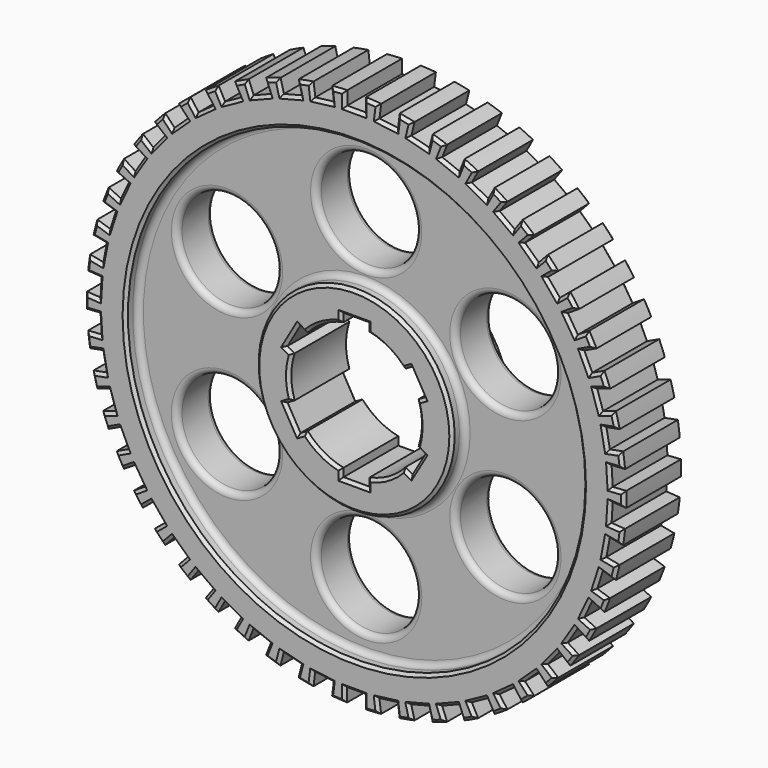
from build123d import *

# Parameters (mm, degrees)
SKETCH_R              = 90.79012
PAD_DEPTH             = 25
SKETCH001_W           = 6.31633
SKETCH001_H           = 4.810761
POCKET_DEPTH          = 541.015601
POLARPATTERN_COUNT    = 50
SKETCH002_R           = 77
SKETCH002_R_2         = 33
POCKET001_DEPTH       = 5
SKETCH003_R           = 77
SKETCH003_R_2         = 33
POCKET002_DEPTH       = 5
SKETCH004_R           = 22
POCKET003_DEPTH       = 25.001
SKETCH005_W           = 8.794952
SKETCH005_H           = 3.541931
POCKET004_DEPTH       = 540.862567
POLARPATTERN001_COUNT = 6
SKETCH006_R           = 16.733821
POCKET005_DEPTH       = 535.862567
POLARPATTERN002_COUNT = 6
FILLET_R              = 2
CHAMFER_SIZE          = 1
CHAMFER001_SIZE       = 1
CHAMFER002_SIZE       = 1
FILLET001_R           = 2
CHAMFER003_SIZE       = 1


with BuildPart() as part:
    # Sketch → Pad (new body)
    with BuildSketch(Plane.XZ):
        Circle(SKETCH_R)
    extrude(amount=PAD_DEPTH)

    # Sketch001 (on Face3 of Pad) → Pocket (cut, through all)
    with BuildSketch(Plane.XZ.offset(25)):
        with Locations((0.016587, 88.583343)):
            Rectangle(SKETCH001_W, SKETCH001_H)
    pocket = extrude(amount=-POCKET_DEPTH, mode=Mode.SUBTRACT)

    # PolarPattern: Pocket ×50 about axis
    polarpattern_axis = Axis((0, -25, 0), (0, -1, 0))
    for i in range(1, POLARPATTERN_COUNT):
        add(pocket.rotate(polarpattern_axis, i * 360 / POLARPATTERN_COUNT), mode=Mode.SUBTRACT)

    # Sketch002 (on Face202 of PolarPattern) → Pocket001 (cut)
    with BuildSketch(Plane.XZ.offset(25)):
        Circle(SKETCH002_R)
        Circle(SKETCH002_R_2, mode=Mode.SUBTRACT)
    extrude(amount=-POCKET001_DEPTH, mode=Mode.SUBTRACT)

    # Sketch003 (on Face1 of Pocket001) → Pocket002 (cut)
    with BuildSketch(Plane(origin=(0, 0, 0), x_dir=(1, 0, 0), z_dir=(0, 1, 0))):
        Circle(SKETCH003_R)
        Circle(SKETCH003_R_2, mode=Mode.SUBTRACT)
    extrude(amount=-POCKET002_DEPTH, mode=Mode.SUBTRACT)

    # Sketch004 (on Face208 of Pocket002) → Pocket003 (cut, through all)
    with BuildSketch(Plane(origin=(0, 0, 0), x_dir=(1, 0, 0), z_dir=(0, 1, 0))):
        Circle(SKETCH004_R)
    extrude(amount=-POCKET003_DEPTH, mode=Mode.SUBTRACT)

    # Sketch005 (on Face208 of Pocket003) → Pocket004 (cut, through all)
    with BuildSketch(Plane(origin=(0, 0, 0), x_dir=(1, 0, 0), z_dir=(0, 1, 0))):
        with Locations((0, 22.566982)):
            Rectangle(SKETCH005_W, SKETCH005_H)
    pocket004 = extrude(amount=-POCKET004_DEPTH, mode=Mode.SUBTRACT)

    # PolarPattern001: Pocket004 ×6 about axis
    polarpattern001_axis = Axis((0, 0, 0), (0, 1, 0))
    for i in range(1, POLARPATTERN001_COUNT):
        add(pocket004.rotate(polarpattern001_axis, i * 360 / POLARPATTERN001_COUNT), mode=Mode.SUBTRACT)

    # Sketch006 (on Face204 of PolarPattern001) → Pocket005 (cut, through all)
    with BuildSketch(Plane(origin=(0, -5, 0), x_dir=(1, 0, 0), z_dir=(0, 1, 0))):
        with Locations((0, 54.106655)):
            Circle(SKETCH006_R)
    pocket005 = extrude(amount=-POCKET005_DEPTH, mode=Mode.SUBTRACT)

    # PolarPattern002: Pocket005 ×6 about axis
    polarpattern002_axis = Axis((0, -5, 0), (0, 1, 0))
    for i in range(1, POLARPATTERN002_COUNT):
        add(pocket005.rotate(polarpattern002_axis, i * 360 / POLARPATTERN002_COUNT), mode=Mode.SUBTRACT)

    # Fillet
    fillet_edges = [part.edges().sort_by_distance(p)[0] for p in [
        (-77, -5, 0),
        (-55.224648, -5, -12.561413),
        (-16.733821, -5, -54.106655),
        (-38.490827, -5, 41.545242),
        (-33, -5, 0),
        (16.733821, -5, 54.106655),
        (38.490827, -5, -41.545242),
        (55.224648, -5, 12.561413),
    ]]
    fillet(fillet_edges, radius=FILLET_R)

    # Chamfer
    chamfer_edges = [part.edges().sort_by_distance(p)[0] for p in [
        (90.781314, 0, 1.264515),
        (90.781081, 0, -1.281111),
        (88.481075, 0, 2.385729),
        (88.479569, 0, -2.418873),
        (86.008952, 0, 5.394605),
        (86.006869, 0, -5.427713),
        (88.085046, 0, 8.689631),
        (88.082387, 0, -8.722703),
        (90.076291, 0, 11.362553),
        (90.072131, 0, -11.395485),
        (87.484365, 0, 13.456536),
        (87.478716, 0, -13.48923),
        (84.654622, 0, 16.131847),
        (84.648406, 0, -16.164433),
        (86.301369, 0, 19.661094),
        (86.294586, 0, -19.693572),
        (87.941907, 0, 22.562509),
        (87.933652, 0, -22.59466),
        (85.107973, 0, 24.315125),
        (85.098271, 0, -24.346854),
        (81.965239, 0, 26.61468),
        (81.954988, 0, -26.64623),
        (83.156669, 0, 30.32249),
        (83.145869, 0, -30.353862),
        (84.420627, 0, 33.40664),
        (84.408408, 0, -33.437503),
        (81.389378, 0, 34.790251),
        (81.375776, 0, -34.820513),
        (77.983215, 0, 36.677784),
        (77.96909, 0, -36.7078),
        (78.700538, 0, 40.505683),
        (78.685891, 0, -40.535453),
        (79.567983, 0, 43.723929),
        (79.551992, 0, -43.753017),
        (76.387224, 0, 44.716713),
        (76.369936, 0, -44.745032),
        (72.771348, 0, 46.162457),
        (72.753573, 0, -46.190466),
        (73.003253, 0, 50.050076),
        (72.98499, 0, -50.077776),
        (73.460504, 0, 53.351666),
        (73.440993, 0, -53.37852),
        (70.180397, 0, 53.937966),
        (70.159697, 0, -53.963895),
        (66.411835, 0, 54.919121),
        (66.390689, 0, -54.944681),
        (66.154662, 0, 58.80515),
        (66.133072, 0, -58.830343),
        (66.194509, 0, 62.138014),
        (66.171787, 0, -62.162211),
        (62.866784, 0, 62.308586),
        (62.842997, 0, -62.331715),
        (59.004966, 0, 62.809677),
        (58.980784, 0, -62.832386),
        (58.262773, 0, 66.632831),
        (58.238196, 0, -66.65512),
        (57.884588, 0, 69.944409),
        (57.859011, 0, -69.965568),
        (54.561724, 0, 69.696561),
        (54.535226, 0, -69.716527),
        (50.667555, 0, 69.709687),
        (50.640717, 0, -69.729186),
        (49.452046, 0, 73.409674),
        (49.424868, 0, -73.428705),
        (48.661791, 0, 76.647739),
        (48.633765, 0, -76.665525),
        (45.396194, 0, 75.98538),
        (45.367401, 0, -76.001868),
        (41.531085, 0, 75.510334),
        (41.502015, 0, -75.526315),
        (39.86143, 0, 79.028801),
        (39.832082, 0, -79.044277),
        (38.67157, 0, 82.142289),
        (38.641535, 0, -82.156422),
        (35.514738, 0, 81.075865),
        (35.484106, 0, -81.088613),
        (31.739646, 0, 80.120138),
        (31.708802, 0, -80.13235),
        (29.642175, 0, 83.401597),
        (29.611119, 0, -83.413273),
        (28.071474, 0, 86.341405),
        (28.039905, 0, -86.351663),
        (25.073193, 0, 84.887734),
        (25.041205, 0, -84.896543),
        (21.447654, 0, 83.466399),
        (21.415522, 0, -83.474649),
        (18.955446, 0, 86.459101),
        (18.923171, 0, -86.466791),
        (17.028675, 0, 89.178866),
        (16.996069, 0, -89.185086),
        (14.236229, 0, 87.360873),
        (14.20339, 0, -87.365604),
        (10.817419, 0, 85.496345),
        (10.784507, 0, -85.500503),
        (7.969778, 0, 88.153092),
        (7.936794, 0, -88.156677),
        (5.717323, 0, 90.609923),
        (5.684195, 0, -90.612007),
        (3.174752, 0, 88.456279),
        (3.141578, 0, -88.456857),
        (0.016587, 0, 86.177963),
        (-0.016587, 0, -86.177963),
        (-3.141578, 0, 88.456857),
        (-3.174752, 0, -88.456279),
        (-5.684195, 0, 90.612007),
        (-5.717323, 0, -90.609923),
        (-7.936794, 0, 88.156677),
        (-7.969778, 0, -88.153092),
        (-10.784507, 0, 85.500503),
        (-10.817419, 0, -85.496345),
        (-14.20339, 0, 87.365604),
        (-14.236229, 0, -87.360873),
        (-16.996069, 0, 89.185086),
        (-17.028675, 0, -89.178866),
        (-18.923171, 0, 86.466791),
        (-18.955446, 0, -86.459101),
        (-21.415522, 0, 83.474649),
        (-21.447654, 0, -83.466399),
        (-25.041205, 0, 84.896543),
        (-25.073193, 0, -84.887734),
        (-28.039905, 0, 86.351663),
        (-28.071474, 0, -86.341405),
        (-29.611119, 0, 83.413273),
        (-29.642175, 0, -83.401597),
        (-31.708802, 0, 80.13235),
        (-31.739646, 0, -80.120138),
        (-35.484106, 0, 81.088613),
        (-35.514738, 0, -81.075865),
        (-38.641535, 0, 82.156422),
        (-38.67157, 0, -82.142289),
        (-39.832082, 0, 79.044277),
        (-39.86143, 0, -79.028801),
        (-41.502015, 0, 75.526315),
        (-41.531085, 0, -75.510334),
        (-45.367401, 0, 76.001868),
        (-45.396194, 0, -75.98538),
        (-48.633765, 0, 76.665525),
        (-48.661791, 0, -76.647739),
        (-49.424868, 0, 73.428705),
        (-49.452046, 0, -73.409674),
        (-50.640717, 0, 69.729186),
        (-50.667555, 0, -69.709687),
        (-54.535226, 0, 69.716527),
        (-54.561724, 0, -69.696561),
        (-57.859011, 0, 69.965568),
        (-57.884588, 0, -69.944409),
        (-58.238196, 0, 66.65512),
        (-58.262773, 0, -66.632831),
        (-58.980784, 0, 62.832386),
        (-59.004966, 0, -62.809677),
        (-62.842997, 0, 62.331715),
        (-62.866784, 0, -62.308586),
        (-66.171787, 0, 62.162211),
        (-66.194509, 0, -62.138014),
        (-66.133072, 0, 58.830343),
        (-66.154662, 0, -58.80515),
        (-66.390689, 0, 54.944681),
        (-66.411835, 0, -54.919121),
        (-70.159697, 0, 53.963895),
        (-70.180397, 0, -53.937966),
        (-73.440993, 0, 53.37852),
        (-73.460504, 0, -53.351666),
        (-72.98499, 0, 50.077776),
        (-73.003253, 0, -50.050076),
        (-72.753573, 0, 46.190466),
        (-72.771348, 0, -46.162457),
        (-76.369936, 0, 44.745032),
        (-76.387224, 0, -44.716713),
        (-79.551992, 0, 43.753017),
        (-79.567983, 0, -43.723929),
        (-78.685891, 0, 40.535453),
        (-78.700538, 0, -40.505683),
        (-77.96909, 0, 36.7078),
        (-77.983215, 0, -36.677784),
        (-81.375776, 0, 34.820513),
        (-81.389378, 0, -34.790251),
        (-84.408408, 0, 33.437503),
        (-84.420627, 0, -33.40664),
        (-83.145869, 0, 30.353862),
        (-83.156669, 0, -30.32249),
        (-81.954988, 0, 26.64623),
        (-81.965239, 0, -26.61468),
        (-85.098271, 0, 24.346854),
        (-85.107973, 0, -24.315125),
        (-87.933652, 0, 22.59466),
        (-87.941907, 0, -22.562509),
        (-86.294586, 0, 19.693572),
        (-86.301369, 0, -19.661094),
        (-84.648406, 0, 16.164433),
        (-84.654622, 0, -16.131847),
        (-87.478716, 0, 13.48923),
        (-87.484365, 0, -13.456536),
        (-90.072131, 0, 11.395485),
        (-90.076291, 0, -11.362553),
        (-88.082387, 0, 8.722703),
        (-88.085046, 0, -8.689631),
        (-86.006869, 0, 5.427713),
        (-86.008952, 0, -5.394605),
        (-88.479569, 0, 2.418873),
        (-88.481075, 0, -2.385729),
        (-90.790118, 0, 0.016597),
        (-77, 0, 0),
    ]]
    chamfer(chamfer_edges, length=CHAMFER_SIZE)

    # Chamfer001
    chamfer001_edges = [part.edges().sort_by_distance(p)[0] for p in [
        (-33, 0, 0),
        (21.714853, 0, -3.530604),
        (22.071411, 0, -7.665167),
        (21.077281, 0, -12.168974),
        (17.673935, 0, -15.281819),
        (11, 0, -19.052559),
        (4.397476, 0, -22.946986),
        (0, 0, -24.337948),
        (-4.397476, 0, -22.946986),
        (-11, 0, -19.052559),
        (-17.673935, 0, -15.281819),
        (-21.077281, 0, -12.168974),
        (-22.071411, 0, -7.665167),
        (-22, 0, 0),
        (-22.071411, 0, 7.665167),
        (-21.077281, 0, 12.168974),
        (-17.673935, 0, 15.281819),
        (-11, 0, 19.052559),
        (-4.397476, 0, 22.946986),
        (0, 0, 24.337948),
        (4.397476, 0, 22.946986),
        (11, 0, 19.052559),
        (17.673935, 0, 15.281819),
        (21.077281, 0, 12.168974),
        (22.071411, 0, 7.665167),
        (21.714853, 0, 3.530604),
    ]]
    chamfer(chamfer001_edges, length=CHAMFER001_SIZE)

    # Chamfer002
    chamfer002_edges = [part.edges().sort_by_distance(p)[0] for p in [
        (-33, -25, 0),
        (21.714853, -25, -3.530604),
        (22.071411, -25, -7.665167),
        (21.077281, -25, -12.168974),
        (17.673935, -25, -15.281819),
        (11, -25, -19.052559),
        (4.397476, -25, -22.946986),
        (0, -25, -24.337948),
        (-4.397476, -25, -22.946986),
        (-11, -25, -19.052559),
        (-17.673935, -25, -15.281819),
        (-21.077281, -25, -12.168974),
        (-22.071411, -25, -7.665167),
        (-22, -25, 0),
        (-22.071411, -25, 7.665167),
        (-21.077281, -25, 12.168974),
        (-17.673935, -25, 15.281819),
        (-11, -25, 19.052559),
        (-4.397476, -25, 22.946986),
        (0, -25, 24.337948),
        (4.397476, -25, 22.946986),
        (11, -25, 19.052559),
        (17.673935, -25, 15.281819),
        (21.077281, -25, 12.168974),
        (22.071411, -25, 7.665167),
        (21.714853, -25, 3.530604),
    ]]
    chamfer(chamfer002_edges, length=CHAMFER002_SIZE)

    # Fillet001
    fillet001_edges = [part.edges().sort_by_distance(p)[0] for p in [
        (-77, -20, 0),
        (-55.224648, -20, -12.561413),
        (-16.733821, -20, -54.106655),
        (-33, -20, 0),
        (-38.490827, -20, 41.545242),
        (16.733821, -20, 54.106655),
        (38.490827, -20, -41.545242),
        (55.224648, -20, 12.561413),
    ]]
    fillet(fillet001_edges, radius=FILLET001_R)

    # Chamfer003
    chamfer003_edges = [part.edges().sort_by_distance(p)[0] for p in [
        (90.781314, -25, 1.264515),
        (90.781081, -25, -1.281111),
        (88.481075, -25, 2.385729),
        (88.479569, -25, -2.418873),
        (86.008952, -25, 5.394605),
        (86.006869, -25, -5.427713),
        (88.085046, -25, 8.689631),
        (88.082387, -25, -8.722703),
        (90.076291, -25, 11.362553),
        (90.072131, -25, -11.395485),
        (87.484365, -25, 13.456536),
        (87.478716, -25, -13.48923),
        (84.654622, -25, 16.131847),
        (84.648406, -25, -16.164433),
        (86.301369, -25, 19.661094),
        (86.294586, -25, -19.693572),
        (87.941907, -25, 22.562509),
        (87.933652, -25, -22.59466),
        (85.107973, -25, 24.315125),
        (85.098271, -25, -24.346854),
        (81.965239, -25, 26.61468),
        (81.954988, -25, -26.64623),
        (83.156669, -25, 30.32249),
        (83.145869, -25, -30.353862),
        (84.420627, -25, 33.40664),
        (84.408408, -25, -33.437503),
        (81.389378, -25, 34.790251),
        (81.375776, -25, -34.820513),
        (77.983215, -25, 36.677784),
        (77.96909, -25, -36.7078),
        (78.700538, -25, 40.505683),
        (78.685891, -25, -40.535453),
        (79.567983, -25, 43.723929),
        (79.551992, -25, -43.753017),
        (76.387224, -25, 44.716713),
        (76.369936, -25, -44.745032),
        (72.771348, -25, 46.162457),
        (72.753573, -25, -46.190466),
        (73.003253, -25, 50.050076),
        (72.98499, -25, -50.077776),
        (73.460504, -25, 53.351666),
        (73.440993, -25, -53.37852),
        (70.180397, -25, 53.937966),
        (70.159697, -25, -53.963895),
        (66.411835, -25, 54.919121),
        (66.390689, -25, -54.944681),
        (66.154662, -25, 58.80515),
        (66.133072, -25, -58.830343),
        (66.194509, -25, 62.138014),
        (66.171787, -25, -62.162211),
        (62.866784, -25, 62.308586),
        (62.842997, -25, -62.331715),
        (59.004966, -25, 62.809677),
        (58.980784, -25, -62.832386),
        (58.262773, -25, 66.632831),
        (58.238196, -25, -66.65512),
        (57.884588, -25, 69.944409),
        (57.859011, -25, -69.965568),
        (54.561724, -25, 69.696561),
        (54.535226, -25, -69.716527),
        (50.667555, -25, 69.709687),
        (50.640717, -25, -69.729186),
        (49.452046, -25, 73.409674),
        (49.424868, -25, -73.428705),
        (48.661791, -25, 76.647739),
        (48.633765, -25, -76.665525),
        (45.396194, -25, 75.98538),
        (45.367401, -25, -76.001868),
        (41.531085, -25, 75.510334),
        (41.502015, -25, -75.526315),
        (39.86143, -25, 79.028801),
        (39.832082, -25, -79.044277),
        (38.67157, -25, 82.142289),
        (38.641535, -25, -82.156422),
        (35.514738, -25, 81.075865),
        (35.484106, -25, -81.088613),
        (31.739646, -25, 80.120138),
        (31.708802, -25, -80.13235),
        (29.642175, -25, 83.401597),
        (29.611119, -25, -83.413273),
        (28.071474, -25, 86.341405),
        (28.039905, -25, -86.351663),
        (25.073193, -25, 84.887734),
        (25.041205, -25, -84.896543),
        (21.447654, -25, 83.466399),
        (21.415522, -25, -83.474649),
        (18.955446, -25, 86.459101),
        (18.923171, -25, -86.466791),
        (17.028675, -25, 89.178866),
        (16.996069, -25, -89.185086),
        (14.236229, -25, 87.360873),
        (14.20339, -25, -87.365604),
        (10.817419, -25, 85.496345),
        (10.784507, -25, -85.500503),
        (7.969778, -25, 88.153092),
        (7.936794, -25, -88.156677),
        (5.717323, -25, 90.609923),
        (5.684195, -25, -90.612007),
        (3.174752, -25, 88.456279),
        (3.141578, -25, -88.456857),
        (0.016587, -25, 86.177963),
        (-0.016587, -25, -86.177963),
        (-3.141578, -25, 88.456857),
        (-3.174752, -25, -88.456279),
        (-5.684195, -25, 90.612007),
        (-5.717323, -25, -90.609923),
        (-7.936794, -25, 88.156677),
        (-7.969778, -25, -88.153092),
        (-10.784507, -25, 85.500503),
        (-10.817419, -25, -85.496345),
        (-14.20339, -25, 87.365604),
        (-14.236229, -25, -87.360873),
        (-16.996069, -25, 89.185086),
        (-17.028675, -25, -89.178866),
        (-18.923171, -25, 86.466791),
        (-18.955446, -25, -86.459101),
        (-21.415522, -25, 83.474649),
        (-21.447654, -25, -83.466399),
        (-25.041205, -25, 84.896543),
        (-25.073193, -25, -84.887734),
        (-28.039905, -25, 86.351663),
        (-28.071474, -25, -86.341405),
        (-29.611119, -25, 83.413273),
        (-29.642175, -25, -83.401597),
        (-31.708802, -25, 80.13235),
        (-31.739646, -25, -80.120138),
        (-35.484106, -25, 81.088613),
        (-35.514738, -25, -81.075865),
        (-38.641535, -25, 82.156422),
        (-38.67157, -25, -82.142289),
        (-39.832082, -25, 79.044277),
        (-39.86143, -25, -79.028801),
        (-41.502015, -25, 75.526315),
        (-41.531085, -25, -75.510334),
        (-45.367401, -25, 76.001868),
        (-45.396194, -25, -75.98538),
        (-48.633765, -25, 76.665525),
        (-48.661791, -25, -76.647739),
        (-49.424868, -25, 73.428705),
        (-49.452046, -25, -73.409674),
        (-50.640717, -25, 69.729186),
        (-50.667555, -25, -69.709687),
        (-54.535226, -25, 69.716527),
        (-54.561724, -25, -69.696561),
        (-57.859011, -25, 69.965568),
        (-57.884588, -25, -69.944409),
        (-58.238196, -25, 66.65512),
        (-58.262773, -25, -66.632831),
        (-58.980784, -25, 62.832386),
        (-59.004966, -25, -62.809677),
        (-62.842997, -25, 62.331715),
        (-62.866784, -25, -62.308586),
        (-66.171787, -25, 62.162211),
        (-66.194509, -25, -62.138014),
        (-66.133072, -25, 58.830343),
        (-66.154662, -25, -58.80515),
        (-66.390689, -25, 54.944681),
        (-66.411835, -25, -54.919121),
        (-70.159697, -25, 53.963895),
        (-70.180397, -25, -53.937966),
        (-73.440993, -25, 53.37852),
        (-73.460504, -25, -53.351666),
        (-72.98499, -25, 50.077776),
        (-73.003253, -25, -50.050076),
        (-72.753573, -25, 46.190466),
        (-72.771348, -25, -46.162457),
        (-76.369936, -25, 44.745032),
        (-76.387224, -25, -44.716713),
        (-79.551992, -25, 43.753017),
        (-79.567983, -25, -43.723929),
        (-78.685891, -25, 40.535453),
        (-78.700538, -25, -40.505683),
        (-77.96909, -25, 36.7078),
        (-77.983215, -25, -36.677784),
        (-81.375776, -25, 34.820513),
        (-81.389378, -25, -34.790251),
        (-84.408408, -25, 33.437503),
        (-84.420627, -25, -33.40664),
        (-83.145869, -25, 30.353862),
        (-83.156669, -25, -30.32249),
        (-81.954988, -25, 26.64623),
        (-81.965239, -25, -26.61468),
        (-85.098271, -25, 24.346854),
        (-85.107973, -25, -24.315125),
        (-87.933652, -25, 22.59466),
        (-87.941907, -25, -22.562509),
        (-86.294586, -25, 19.693572),
        (-86.301369, -25, -19.661094),
        (-84.648406, -25, 16.164433),
        (-84.654622, -25, -16.131847),
        (-87.478716, -25, 13.48923),
        (-87.484365, -25, -13.456536),
        (-90.072131, -25, 11.395485),
        (-90.076291, -25, -11.362553),
        (-88.082387, -25, 8.722703),
        (-88.085046, -25, -8.689631),
        (-86.006869, -25, 5.427713),
        (-86.008952, -25, -5.394605),
        (-88.479569, -25, 2.418873),
        (-88.481075, -25, -2.385729),
        (-90.790118, -25, 0.016597),
        (-77, -25, 0),
    ]]
    chamfer(chamfer003_edges, length=CHAMFER003_SIZE)


solid = part.part
